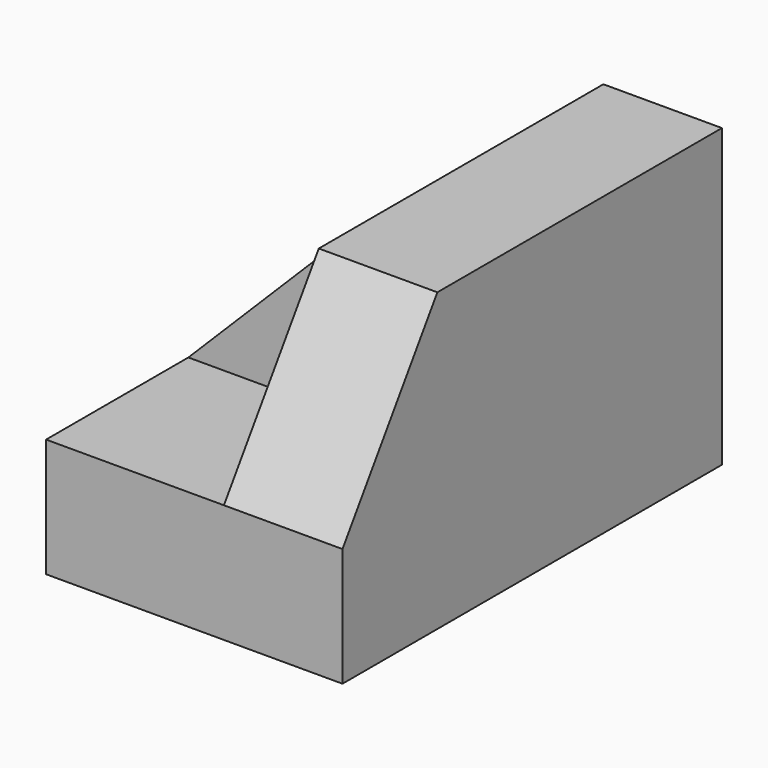
from build123d import *

# Parameters (mm, degrees)
F1_DEPTH = 50.8
F3_DEPTH = 25.4
F4_W     = 12.7
F4_H     = 19.05
F5_DEPTH = 19.05
F7_DEPTH = 25.4


with BuildPart() as f1:
    # F0 (on Front) → F1 (new body)
    with BuildSketch(Plane.XZ):
        Polygon((0, 12.7), (0, 0), (31.75, 0), (31.75, 31.75), (19.05, 31.75), (19.05, 12.7), align=None)
    extrude(amount=F1_DEPTH)

    # F2 (on face) → F3 (cut)
    with BuildSketch(Plane(origin=(19.05, 0, 0), x_dir=(0, -1, 0), z_dir=(-1, 0, 0))):
        Polygon((50.8, 31.75), (38.1, 31.75), (50.8, 12.7), align=None)
    extrude(amount=-F3_DEPTH, mode=Mode.SUBTRACT)

    # F4 (on face) → F5 (join)
    with BuildSketch(Plane(origin=(19.05, 0, 0), x_dir=(0, -1, 0), z_dir=(-1, 0, 0))):
        with Locations((25.4, 22.225)):
            Rectangle(F4_W, F4_H)
    extrude(amount=F5_DEPTH)

    # F6 (on face) → F7 (cut)
    with BuildSketch(Plane.XZ.offset(31.75)):
        Polygon((0, 31.75), (0, 12.7), (19.05, 31.75), align=None)
    extrude(amount=-F7_DEPTH, mode=Mode.SUBTRACT)


solid = f1.part
